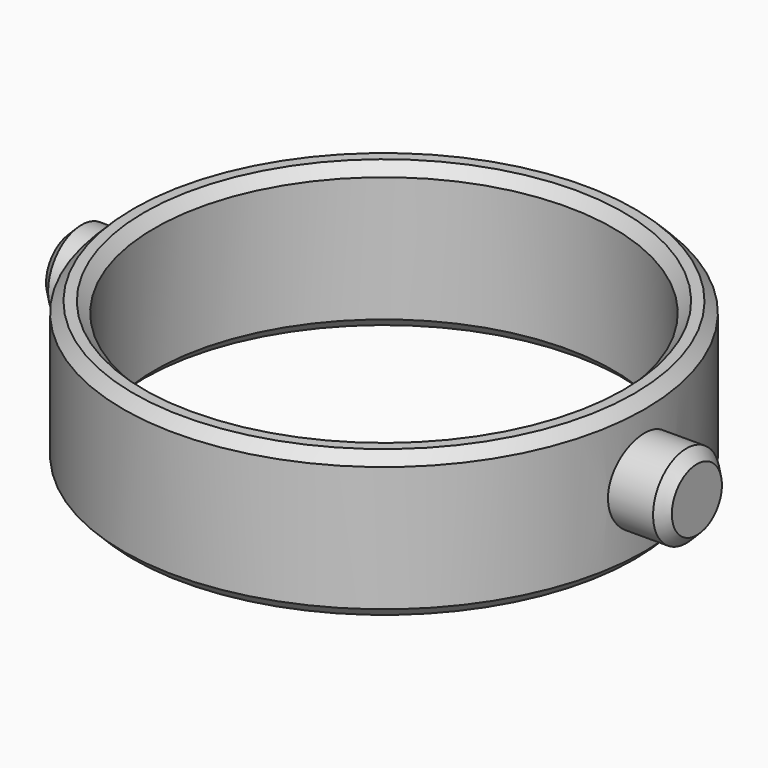
from build123d import *

# Parameters (mm, degrees)
F0_R     = 12.5
F0_R_2   = 11
F1_DEPTH = 7
F2_SIZE  = 0.5
F4_R     = 2
F5_DEPTH = 4
F7_SIZE  = 0.5


with BuildPart() as f1:
    # F0 (on Top) → F1 (new body)
    with BuildSketch(Plane.XY):
        Circle(F0_R)
        Circle(F0_R_2, mode=Mode.SUBTRACT)
    extrude(amount=F1_DEPTH)

    # F2
    f2_edges = [f1.edges().sort_by_distance(p)[0] for p in [
        (-11, 0, 7),
        (-12.5, 0, 7),
        (-12.5, 0, 0),
        (-11, 0, 0),
    ]]
    chamfer(f2_edges, length=F2_SIZE)

    # F4 (on offset) → F5 (join)
    with BuildSketch(Plane.YZ.offset(11)):
        with Locations((0, 3.5)):
            Circle(F4_R)
    extrude(amount=F5_DEPTH)

    # F6: F1 across plane


with BuildPart() as f1_1:
    add(f1.part)
    add(f1.part.mirror(Plane.YZ))

    # F7
    f7_edges = [f1_1.edges().sort_by_distance(p)[0] for p in [
        (15, -2, 3.5),
        (-15, -2, 3.5),
    ]]
    chamfer(f7_edges, length=F7_SIZE)


solid = f1_1.part
